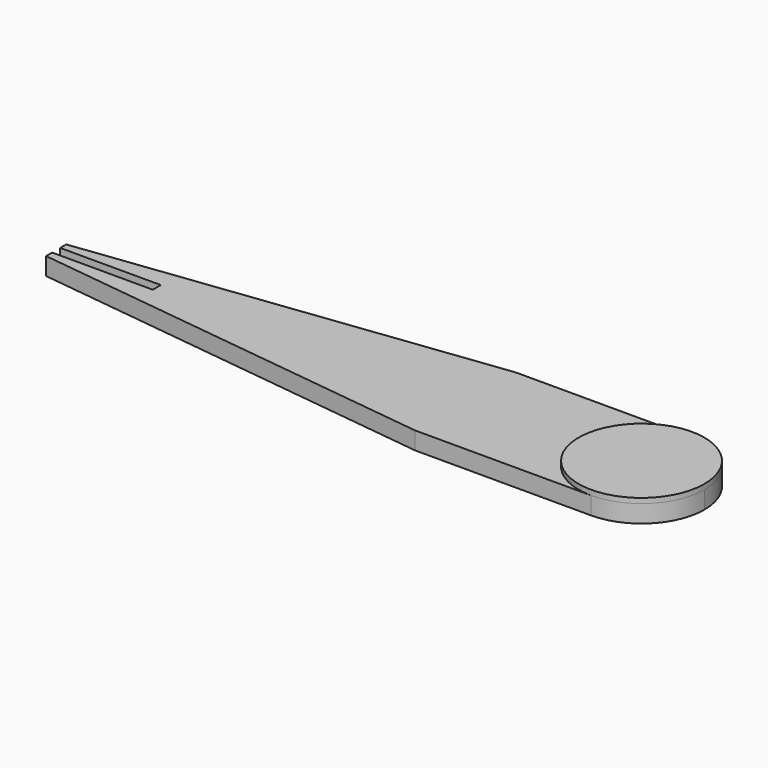
from build123d import *

# Parameters (mm, degrees)
F0_R     = 8
F1_DEPTH = 3.5
F2_R     = 12.5
F3_DEPTH = 1
F4_W     = 20
F4_H     = 2
F5_DEPTH = 2


with BuildPart() as f1:
    # F0 (on Top) → F1 (new body)
    with BuildSketch(Plane.XY):
        with BuildLine():
            ThreePointArc((0, -12.5), (-12.5, 0), (0, 12.5))
            Line((0, 12.5), (-35, 12.5))
            Line((-35, 12.5), (-116.388784, 2.506714))
            Line((-116.388784, 2.506714), (-116.388784, -2.506714))
            Line((-116.388784, -2.506714), (-35, -12.5))
            Line((-35, -12.5), (0, -12.5))
        make_face()
        with BuildLine():
            ThreePointArc((0, -12.5), (8.838835, -8.838835), (12.5, 0))
            ThreePointArc((12.5, 0), (8.838835, 8.838835), (0, 12.5))
            ThreePointArc((0, 12.5), (-12.5, 0), (0, -12.5))
        make_face()
        Circle(F0_R, mode=Mode.SUBTRACT)
    extrude(amount=F1_DEPTH)

    # F2 (on face) → F3 (join)
    with BuildSketch(Plane.XY.offset(3.5)):
        Circle(F2_R)
    extrude(amount=F3_DEPTH)

    # F4 (on face) → F5 (cut)
    with BuildSketch(Plane.XY.offset(3.5)):
        with Locations((-106.388784, 0.006714)):
            Rectangle(F4_W, F4_H)
    extrude(amount=-F5_DEPTH, mode=Mode.SUBTRACT)


solid = f1.part
